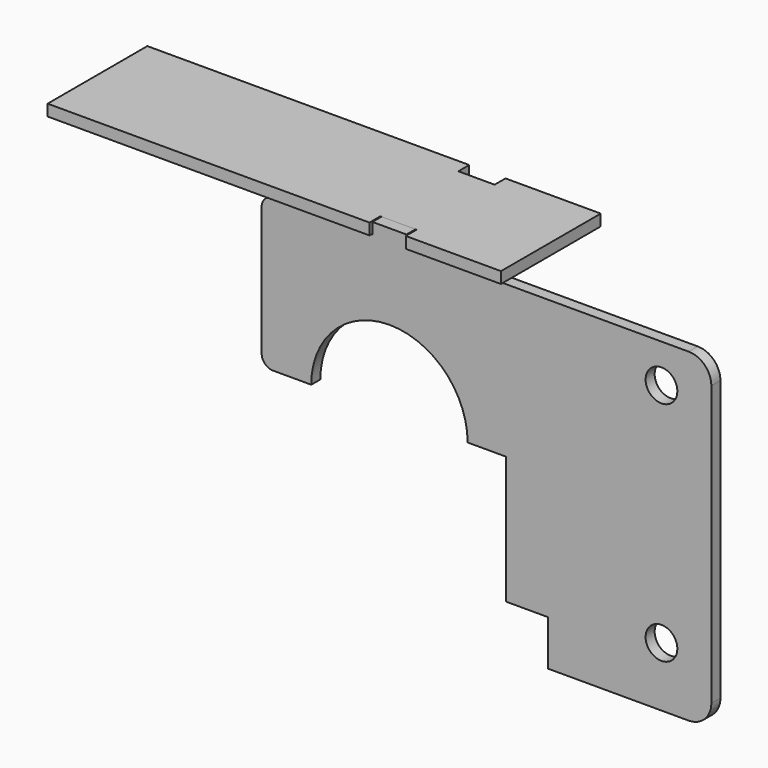
from build123d import *

# Parameters (mm, degrees)
F0_R     = 7
F0_W     = 15
F0_H     = 5
F1_DEPTH = 5
F3_DEPTH = 5
F5_DEPTH = 25
F6_R     = 5


with BuildPart() as f1:
    # F0 (on Front) → F1 (new body)
    with BuildSketch(Plane.XZ):
        with BuildLine():
            Line((-7.5, 67), (-112.4850192021, 67))
            ThreePointArc((-112.4850192021, 67), (-121.8835509134, 60.4157871235), (-118.9056959219, 49.3335203346))
            Line((-118.9056959219, 49.3335203346), (-62.7862929368, 2.3335203346))
            ThreePointArc((-62.7862929368, 2.3335203346), (-59.7814033405, 0.6014682888), (-56.365616217, 0))
            Line((-56.365616217, 0), (-34.5, 0))
            ThreePointArc((-34.5, 0), (0, 34.5), (34.5, 0))
            Line((34.5, 0), (51.5, 0))
            Line((51.5, 0), (51.5, -56.3))
            Line((51.5, -56.3), (70, -56.3))
            Line((70, -56.3), (70, -76.3))
            Line((70, -76.3), (132, -76.3))
            ThreePointArc((132, -76.3), (139.0710678119, -73.3710678119), (142, -66.3))
            Line((142, -66.3), (142, 57))
            ThreePointArc((142, 57), (139.0710678119, 64.0710678119), (132, 67))
            Line((132, 67), (7.5, 67))
            Line((7.5, 67), (-7.5, 67))
        make_face()
        with Locations((120, -50)):
            Circle(F0_R, mode=Mode.SUBTRACT)
        with Locations((120, 50)):
            Circle(F0_R, mode=Mode.SUBTRACT)
        with Locations((0, 69.5)):
            Rectangle(F0_W, F0_H)
    extrude(amount=F1_DEPTH)

    # F4 (on face) → F5 (cut)
    with BuildSketch(Plane.XZ.offset(5)):
        with BuildLine():
            ThreePointArc((-62.7862929368, 2.3335203346), (-59.7814033405, 0.6014682888), (-56.365616217, 0))
            Line((-56.365616217, 0), (-56.365616217, 67))
            Line((-56.365616217, 67), (-112.4850192021, 67))
            ThreePointArc((-112.4850192021, 67), (-121.8835509134, 60.4157871235), (-118.9056959219, 49.3335203346))
            Line((-118.9056959219, 49.3335203346), (-62.7862929368, 2.3335203346))
        make_face()
    extrude(amount=-F5_DEPTH, mode=Mode.SUBTRACT)

    # F6
    f6_edges = [f1.edges().sort_by_distance(p)[0] for p in [
        (-56.365616, -2.5, 67),
        (-56.365616, -2.5, 0),
    ]]
    fillet(f6_edges, radius=F6_R)


with BuildPart() as f3:
    # F2 (on face) → F3 (new body)
    with BuildSketch(Plane.XY.offset(67)):
        Polygon((8, -6), (50, -6), (50, 49), (8, 49), (8, 43), (-8, 43), (-8, 49), (-150, 49), (-150, -6), (-8, -6), (-8, 0), (8, 0), align=None)
    extrude(amount=F3_DEPTH)


solid = Compound([f1.part, f3.part])
